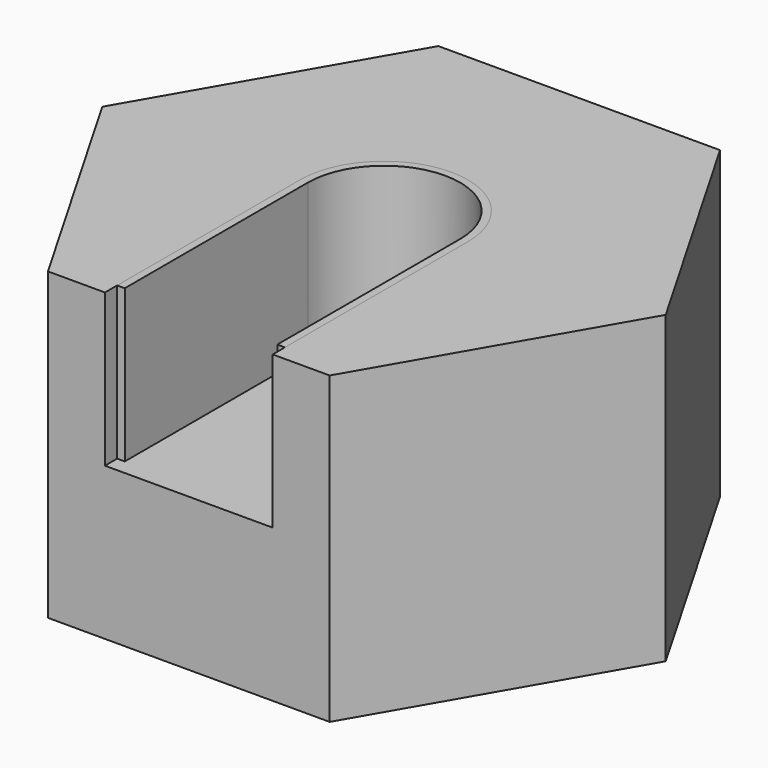
from build123d import *

# Parameters (mm, degrees)
SKETCH_R        = 5
PAD_DEPTH       = 20
SKETCH001_W     = 10
SKETCH001_H     = 20
POCKET_DEPTH    = 10
SKETCH002_R     = 5.5
PAD001_DEPTH    = 20
SKETCH003_W     = 11
SKETCH003_H     = 20
POCKET001_DEPTH = 10


with BuildPart() as body30mm:
    # Sketch → Pad (new body)
    with BuildSketch(Plane.XY):
        Polygon((17.320508, 0), (8.660254, 15), (-8.660254, 15), (-17.320508, 0), (-8.660254, -15), (8.660254, -15), align=None)
        Circle(SKETCH_R, mode=Mode.SUBTRACT)
    extrude(amount=PAD_DEPTH)

    # Sketch001 (on Face9 of Pad) → Pocket (cut)
    with BuildSketch(Plane.XY.offset(20)):
        with Locations((0, -10)):
            Rectangle(SKETCH001_W, SKETCH001_H)
    extrude(amount=-POCKET_DEPTH, mode=Mode.SUBTRACT)


with BuildPart() as body32mm:
    # Sketch002 → Pad001 (new body)
    with BuildSketch(Plane.XY):
        Polygon((18.475209, 0), (9.237604, 16), (-9.237604, 16), (-18.475209, 0), (-9.237604, -16), (9.237604, -16), align=None)
        Circle(SKETCH002_R, mode=Mode.SUBTRACT)
    extrude(amount=PAD001_DEPTH)

    # Sketch003 (on Face9 of Pad001) → Pocket001 (cut)
    with BuildSketch(Plane.XY.offset(20)):
        with Locations((0, -10)):
            Rectangle(SKETCH003_W, SKETCH003_H)
    extrude(amount=-POCKET001_DEPTH, mode=Mode.SUBTRACT)


solid = Compound([body30mm.part, body32mm.part])
